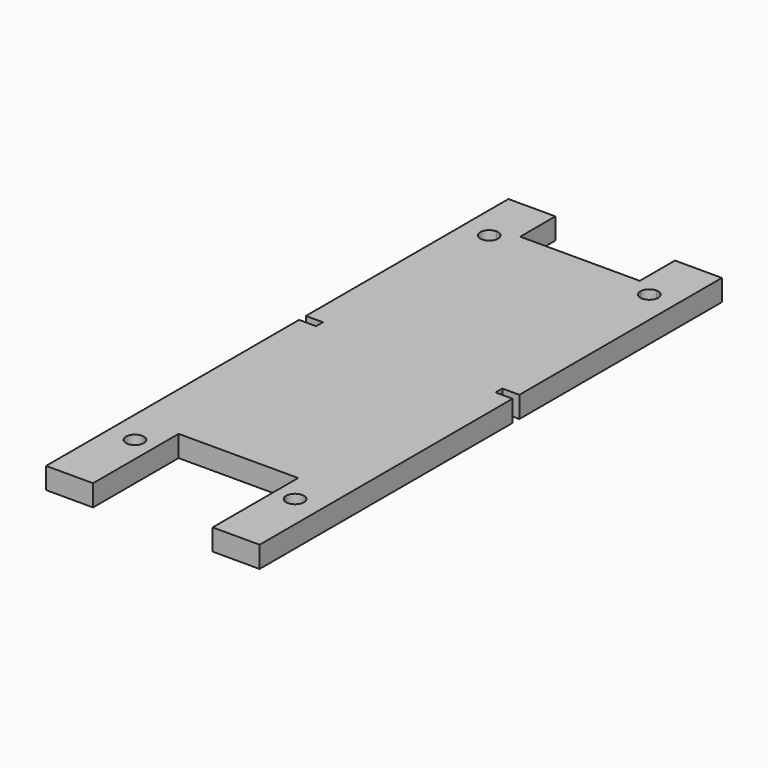
from build123d import *

# Parameters (mm, degrees)
F0_W      = 31.75
F0_H      = 63.5
F1_DEPTH  = 3.175
F2_W      = 1.27
F2_H      = 3.175
F3_DEPTH  = 2.54
F4_W      = 1.27
F4_H      = 3.175
F5_DEPTH  = 2.54
F6_W      = 6.985
F6_H      = 3.175
F7_DEPTH  = 6.35
F9_DEPTH  = 25.4
F10_DEPTH = 25.4
F12_DEPTH = 9.55294
F11_W     = 6.985
F11_H     = 3.175
F13_DEPTH = 6.53796


with BuildPart() as f1:
    # F0 (on Top) → F1 (new body)
    with BuildSketch(Plane.XY):
        with Locations((15.875, 31.75)):
            Rectangle(F0_W, F0_H)
    extrude(amount=F1_DEPTH)

    # F2 (on face) → F3 (cut)
    with BuildSketch(Plane.YZ.offset(31.75)):
        with Locations((31.75, 1.5875)):
            Rectangle(F2_W, F2_H)
    extrude(amount=-F3_DEPTH, mode=Mode.SUBTRACT)

    # F4 (on face) → F5 (cut)
    with BuildSketch(Plane(origin=(0, 0, 0), x_dir=(0, -1, 0), z_dir=(-1, 0, 0))):
        with Locations((-31.75, 1.5875)):
            Rectangle(F4_W, F4_H)
    extrude(amount=-F5_DEPTH, mode=Mode.SUBTRACT)

    # F6 (on face) → F7 (join)
    with BuildSketch(Plane.XZ):
        with Locations((3.4925, 1.5875)):
            Rectangle(F6_W, F6_H)
        with Locations((28.2575, 1.5875)):
            Rectangle(F6_W, F6_H)
    extrude(amount=F7_DEPTH)

    # F8 (on face) → F9 (cut)
    with BuildSketch(Plane.XY.offset(3.175)):
        with BuildLine():
            ThreePointArc((5.29375, -4.35), (3.0318335149, -3.4130835149), (3.96875, -5.675))
            Line((3.96875, -5.675), (3.96875, -4.35))
            Line((3.96875, -4.35), (5.29375, -4.35))
        make_face()
        with BuildLine():
            Line((3.96875, -4.35), (3.96875, -5.675))
            ThreePointArc((3.96875, -5.675), (4.9056664851, -5.2869164851), (5.29375, -4.35))
            Line((5.29375, -4.35), (3.96875, -4.35))
        make_face()
        with BuildLine():
            ThreePointArc((29.10625, -4.35), (27.78125, -3.025), (26.45625, -4.35))
            Line((26.45625, -4.35), (27.78125, -4.35))
            Line((27.78125, -4.35), (27.78125, -5.675))
            ThreePointArc((27.78125, -5.675), (28.7181664851, -5.2869164851), (29.10625, -4.35))
        make_face()
        with BuildLine():
            Line((27.78125, -4.35), (26.45625, -4.35))
            ThreePointArc((26.45625, -4.35), (26.8443335149, -5.2869164851), (27.78125, -5.675))
            Line((27.78125, -5.675), (27.78125, -4.35))
        make_face()
    extrude(amount=-F9_DEPTH, mode=Mode.SUBTRACT)

    # F8 (on face) → F10 (cut)
    with BuildSketch(Plane.XY.offset(3.175)):
        with BuildLine():
            ThreePointArc((3.96875, 62.82602), (3.0318335149, 60.5641035149), (5.29375, 61.50102))
            ThreePointArc((5.29375, 61.50102), (4.9056664851, 62.4379364851), (3.96875, 62.82602))
        make_face()
        with BuildLine():
            ThreePointArc((27.78125, 62.82602), (26.8443335149, 62.4379364851), (26.45625, 61.50102))
            ThreePointArc((26.45625, 61.50102), (27.78125, 60.17602), (29.10625, 61.50102))
            ThreePointArc((29.10625, 61.50102), (28.7181664851, 62.4379364851), (27.78125, 62.82602))
        make_face()
    extrude(amount=-F10_DEPTH, mode=Mode.SUBTRACT)

    # F12 (add): faces of the model
    f12_faces = [f1.faces().sort_by_distance(p)[0] for p in [
        (28.2575, -6.35, 1.5875),
        (3.4925, -6.35, 1.5875),
    ]]
    extrude(f12_faces, amount=F12_DEPTH)

    # F11 (on face) → F13 (join)
    with BuildSketch(Plane(origin=(0, 63.5, 0), x_dir=(-1, 0, 0), z_dir=(0, 1, 0))):
        with Locations((-28.2575, 1.5875)):
            Rectangle(F11_W, F11_H)
        with Locations((-3.4925, 1.5875)):
            Rectangle(F11_W, F11_H)
    extrude(amount=F13_DEPTH)


solid = f1.part
